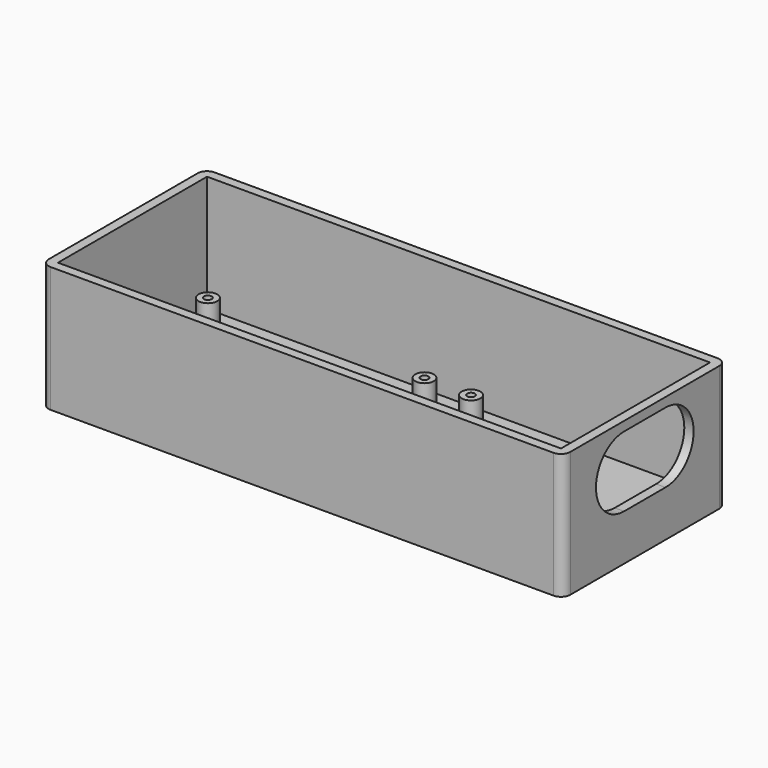
from build123d import *

# Parameters (mm, degrees)
SKETCH001_W   = 112
SKETCH001_H   = 44
PAD_DEPTH     = 2
SKETCH_R      = 2
SKETCH_R_2    = 0.825
PAD001_DEPTH  = 6.5
SKETCH002_W   = 112
SKETCH002_H   = 44
SKETCH002_W_2 = 108
SKETCH002_H_2 = 40
PAD002_DEPTH  = 25
POCKET_DEPTH  = 5
FILLET_R      = 2


with BuildPart() as part:
    # Sketch001 → Pad (new body)
    with BuildSketch(Plane.XY):
        Rectangle(SKETCH001_W, SKETCH001_H)
    extrude(amount=PAD_DEPTH)

    # Sketch → Pad001 (join)
    with BuildSketch(Plane.XY):
        with Locations((51.201135, 16.51)):
            Circle(SKETCH_R)
        with Locations((51.201135, 16.51)):
            Circle(SKETCH_R_2, mode=Mode.SUBTRACT)
        with Locations((5.481135, 16.51)):
            Circle(SKETCH_R)
        with Locations((5.481135, 16.51)):
            Circle(SKETCH_R_2, mode=Mode.SUBTRACT)
        with Locations((-4.518865, 16.51)):
            Circle(SKETCH_R)
        with Locations((-4.518865, 16.51)):
            Circle(SKETCH_R_2, mode=Mode.SUBTRACT)
        with Locations((-51.018865, 16.51)):
            Circle(SKETCH_R)
        with Locations((-51.018865, 16.51)):
            Circle(SKETCH_R_2, mode=Mode.SUBTRACT)
        with Locations((-51.018865, -16.51)):
            Circle(SKETCH_R)
        with Locations((-51.018865, -16.51)):
            Circle(SKETCH_R_2, mode=Mode.SUBTRACT)
        with Locations((-4.518865, -16.51)):
            Circle(SKETCH_R)
        with Locations((-4.518865, -16.51)):
            Circle(SKETCH_R_2, mode=Mode.SUBTRACT)
        with Locations((5.481135, -16.51)):
            Circle(SKETCH_R)
        with Locations((5.481135, -16.51)):
            Circle(SKETCH_R_2, mode=Mode.SUBTRACT)
        with Locations((51.201135, -16.51)):
            Circle(SKETCH_R)
        with Locations((51.201135, -16.51)):
            Circle(SKETCH_R_2, mode=Mode.SUBTRACT)
    extrude(amount=PAD001_DEPTH)

    # Sketch002 (on Face5 of Pad001) → Pad002 (join)
    with BuildSketch(Plane.XY.offset(2)):
        Rectangle(SKETCH002_W, SKETCH002_H)
        Rectangle(SKETCH002_W_2, SKETCH002_H_2, mode=Mode.SUBTRACT)
    extrude(amount=PAD002_DEPTH)

    # Sketch003 (on Face8 of Pad002) → Pocket (cut)
    with BuildSketch(Plane.YZ.offset(56)):
        with BuildLine():
            ThreePointArc((-5.554717, 25), (-13.101596, 17.453121), (-5.554717, 9.906242))
            Line((-5.554717, 9.906242), (5.554717, 9.906242))
            ThreePointArc((5.554717, 9.906242), (13.101596, 17.453121), (5.554717, 25))
            Line((5.554717, 25), (-5.554717, 25))
        make_face()
    extrude(amount=-POCKET_DEPTH, mode=Mode.SUBTRACT)

    # Fillet
    fillet_edges = [part.edges().sort_by_distance(p)[0] for p in [
        (56, -22, 14.5),
        (56, 22, 14.5),
        (-56, -22, 14.5),
        (-56, 22, 14.5),
    ]]
    fillet(fillet_edges, radius=FILLET_R)


solid = part.part
